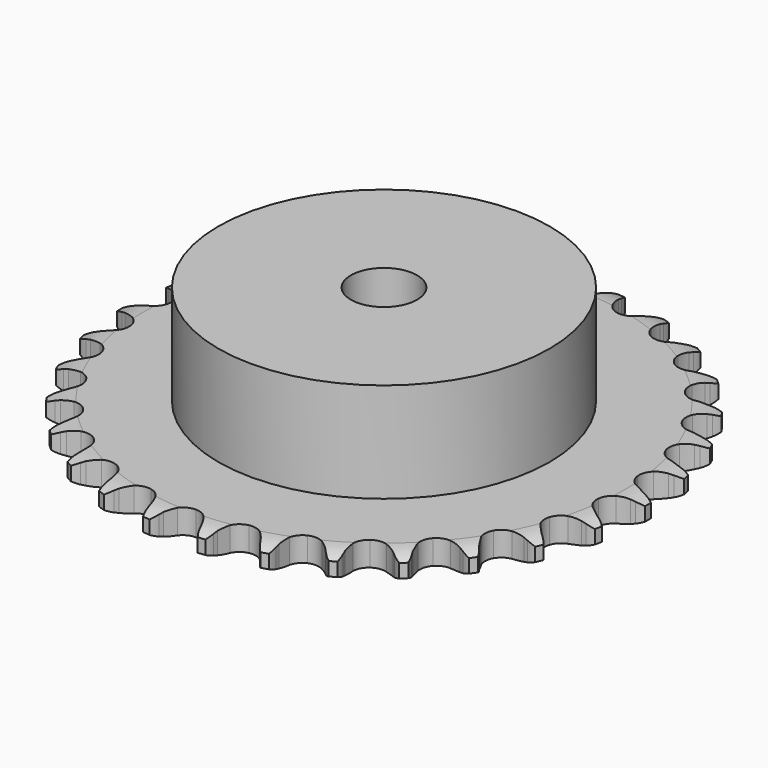
from build123d import *

# Parameters (mm, degrees)
PAD_DEPTH         = 5.9
SKETCH001_R       = 40
PAD001_DEPTH      = 30
SKETCH002_R       = 8
POCKET_DEPTH      = 0.001
POCKET_DEPTH_BACK = 30.001


with BuildPart() as part:
    # Sprocket → Pad (new body)
    with BuildSketch(Plane.XY):
        with BuildLine():
            ThreePointArc((-6.777604, 64.484596), (-5.665418, 63.296033), (-4.894278, 61.862512))
            Line((-4.894278, 61.862512), (-4.516365, 60.871126))
            ThreePointArc((-4.516365, 60.871126), (-3.916232, 59.57825), (-3.140614, 58.382381))
            ThreePointArc((-3.140614, 58.382381), (-1.754662, 57.229697), (0, 56.816529))
            ThreePointArc((0, 56.816529), (1.754662, 57.229697), (3.140614, 58.382381))
            ThreePointArc((3.140614, 58.382381), (3.916232, 59.57825), (4.516365, 60.871126))
            Line((4.516365, 60.871126), (4.894278, 61.862512))
            ThreePointArc((4.894278, 61.862512), (5.665418, 63.296033), (6.777604, 64.484596))
            ThreePointArc((6.777604, 64.484596), (7.61837, 63.09077), (8.074614, 61.528246))
            Line((8.074614, 61.528246), (8.238147, 60.47995))
            ThreePointArc((8.238147, 60.47995), (8.556362, 59.090553), (9.066395, 57.759556))
            ThreePointArc((9.066395, 57.759556), (10.182405, 56.343905), (11.812821, 55.574951))
            ThreePointArc((11.812821, 55.574951), (13.615041, 55.614276), (15.210364, 56.453616))
            Line((15.210364, 56.453616), (17.07349, 58.60194))
            ThreePointArc((17.07349, 58.60194), (17.349706, 59.055057), (17.649266, 59.493091))
            ThreePointArc((17.649266, 59.493091), (18.7016, 60.734957), (20.036599, 61.66631))
            ThreePointArc((20.036599, 61.66631), (20.569199, 60.128137), (20.690605, 58.504899))
            Line((20.690605, 58.504899), (20.632613, 57.445511))
            ThreePointArc((20.632613, 57.445511), (20.655002, 56.020315), (20.87716, 54.612362))
            ThreePointArc((20.87716, 54.612362), (21.674451, 52.995615), (23.109364, 51.904482))
            ThreePointArc((23.109364, 51.904482), (24.880378, 51.568244), (26.615348, 52.057556))
            Line((26.615348, 52.057556), (28.884422, 53.771569))
            ThreePointArc((28.884422, 53.771569), (29.24881, 54.157356), (29.632896, 54.523535))
            ThreePointArc((29.632896, 54.523535), (30.920433, 55.519471), (32.419898, 56.15291))
            ThreePointArc((32.419898, 56.15291), (32.621056, 54.537616), (32.402319, 52.924608))
            Line((32.402319, 52.924608), (32.125334, 51.900428))
            ThreePointArc((32.125334, 51.900428), (31.850919, 50.50172), (31.775492, 49.078345))
            ThreePointArc((31.775492, 49.078345), (32.219221, 47.331161), (33.395918, 45.965537))
            ThreePointArc((33.395918, 45.965537), (35.058323, 45.268433), (36.857113, 45.386332))
            Line((36.857113, 45.386332), (39.432966, 46.591123))
            ThreePointArc((39.432966, 46.591123), (39.8696, 46.892718), (40.321426, 47.17104))
            ThreePointArc((40.321426, 47.17104), (41.787894, 47.877518), (43.386292, 48.185359))
            ThreePointArc((43.386292, 48.185359), (43.247215, 46.563539), (42.697895, 45.031258))
            Line((42.697895, 45.031258), (42.214024, 44.087046))
            ThreePointArc((42.214024, 44.087046), (41.654798, 42.775958), (41.285083, 41.399369))
            ThreePointArc((41.285083, 41.399369), (41.355855, 39.598109), (42.222909, 38.017678))
            ThreePointArc((42.222909, 38.017678), (43.704051, 36.990174), (45.488046, 36.731507))
            Line((45.488046, 36.731507), (48.2581, 37.37442))
            ThreePointArc((48.2581, 37.37442), (48.747898, 37.578643), (49.247717, 37.756943))
            ThreePointArc((49.247717, 37.756943), (50.829024, 38.143087), (52.456497, 38.111876))
            ThreePointArc((52.456497, 38.111876), (51.983264, 36.554413), (51.127368, 35.169825))
            Line((51.127368, 35.169825), (50.457759, 34.346849))
            ThreePointArc((50.457759, 34.346849), (49.638162, 33.180681), (48.990318, 31.911042))
            ThreePointArc((48.990318, 31.911042), (48.68504, 30.13443), (49.204557, 28.408264))
            ThreePointArc((49.204557, 28.408264), (50.439702, 27.095267), (52.130932, 26.471339))
            Line((52.130932, 26.471339), (54.974123, 26.524276))
            ThreePointArc((54.974123, 26.524276), (55.495679, 26.622202), (56.021646, 26.692687))
            ThreePointArc((56.021646, 26.692687), (57.648682, 26.741621), (59.234101, 26.372721))
            ThreePointArc((59.234101, 26.372721), (58.447395, 24.947683), (57.322331, 23.771302))
            Line((57.322331, 23.771302), (56.496247, 23.10553))
            ThreePointArc((56.496247, 23.10553), (55.452101, 22.13525), (54.554441, 21.02805))
            ThreePointArc((54.554441, 21.02805), (53.886456, 19.353731), (54.03573, 17.557273))
            ThreePointArc((54.03573, 17.557273), (54.970896, 16.016166), (56.495447, 15.054246))
            Line((56.495447, 15.054246), (59.287514, 14.514894))
            ThreePointArc((59.287514, 14.514894), (59.818032, 14.502243), (60.347161, 14.461833))
            ThreePointArc((60.347161, 14.461833), (61.948816, 14.171417), (63.422891, 13.480952))
            ThreePointArc((63.422891, 13.480952), (62.357094, 12.250619), (61.012032, 11.33386))
            Line((61.012032, 11.33386), (60.065579, 10.854389))
            ThreePointArc((60.065579, 10.854389), (58.842517, 10.122401), (57.734273, 9.22603))
            ThreePointArc((57.734273, 9.22603), (56.732774, 7.727182), (56.505282, 5.938944))
            ThreePointArc((56.505282, 5.938944), (57.099599, 4.237083), (58.39084, 2.979211))
            Line((58.39084, 2.979211), (61.009756, 1.871142))
            ThreePointArc((61.009756, 1.871142), (61.526051, 1.748466), (62.035214, 1.598927))
            ThreePointArc((62.035214, 1.598927), (63.541489, 0.981855), (64.839796, 0))
            ThreePointArc((64.839796, 0), (63.541489, -0.981855), (62.035214, -1.598927))
            Line((62.035214, -1.598927), (61.009756, -1.871142))
            ThreePointArc((61.009756, -1.871142), (59.661232, -2.332845), (58.39084, -2.979211))
            ThreePointArc((58.39084, -2.979211), (57.099599, -4.237083), (56.505282, -5.938944))
            ThreePointArc((56.505282, -5.938944), (56.732774, -7.727182), (57.734273, -9.22603))
            Line((57.734273, -9.22603), (60.065579, -10.854389))
            ThreePointArc((60.065579, -10.854389), (60.545085, -11.081728), (61.012032, -11.33386))
            ThreePointArc((61.012032, -11.33386), (62.357094, -12.250619), (63.422891, -13.480952))
            ThreePointArc((63.422891, -13.480952), (61.948816, -14.171417), (60.347161, -14.461833))
            Line((60.347161, -14.461833), (59.287514, -14.514894))
            ThreePointArc((59.287514, -14.514894), (57.872465, -14.686134), (56.495447, -15.054246))
            ThreePointArc((56.495447, -15.054246), (54.970896, -16.016166), (54.03573, -17.557273))
            ThreePointArc((54.03573, -17.557273), (53.886456, -19.353731), (54.554441, -21.02805))
            Line((54.554441, -21.02805), (56.496247, -23.10553))
            ThreePointArc((56.496247, -23.10553), (56.918009, -23.427596), (57.322331, -23.771302))
            ThreePointArc((57.322331, -23.771302), (58.447395, -24.947683), (59.234101, -26.372721))
            ThreePointArc((59.234101, -26.372721), (57.648682, -26.741621), (56.021646, -26.692687))
            Line((56.021646, -26.692687), (54.974123, -26.524276))
            ThreePointArc((54.974123, -26.524276), (53.554394, -26.397569), (52.130932, -26.471339))
            ThreePointArc((52.130932, -26.471339), (50.439702, -27.095267), (49.204557, -28.408264))
            ThreePointArc((49.204557, -28.408264), (48.68504, -30.13443), (48.990318, -31.911042))
            Line((48.990318, -31.911042), (50.457759, -34.346849))
            ThreePointArc((50.457759, -34.346849), (50.803343, -34.749567), (51.127368, -35.169825))
            ThreePointArc((51.127368, -35.169825), (51.983264, -36.554413), (52.456497, -38.111876))
            ThreePointArc((52.456497, -38.111876), (50.829024, -38.143087), (49.247717, -37.756943))
            Line((49.247717, -37.756943), (48.2581, -37.37442))
            ThreePointArc((48.2581, -37.37442), (46.895739, -36.955303), (45.488046, -36.731507))
            ThreePointArc((45.488046, -36.731507), (43.704051, -36.990174), (42.222909, -38.017678))
            ThreePointArc((42.222909, -38.017678), (41.355855, -39.598109), (41.285083, -41.399369))
            Line((41.285083, -41.399369), (42.214024, -44.087046))
            ThreePointArc((42.214024, -44.087046), (42.468327, -44.552814), (42.697895, -45.031258))
            ThreePointArc((42.697895, -45.031258), (43.247215, -46.563539), (43.386292, -48.185359))
            ThreePointArc((43.386292, -48.185359), (41.787894, -47.877518), (40.321426, -47.17104))
            Line((40.321426, -47.17104), (39.432966, -46.591123))
            ThreePointArc((39.432966, -46.591123), (38.187515, -45.897914), (36.857113, -45.386332))
            ThreePointArc((36.857113, -45.386332), (35.058323, -45.268433), (33.395918, -45.965537))
            ThreePointArc((33.395918, -45.965537), (32.219221, -47.331161), (31.775492, -49.078345))
            Line((31.775492, -49.078345), (32.125334, -51.900428))
            ThreePointArc((32.125334, -51.900428), (32.277241, -52.40889), (32.402319, -52.924608))
            ThreePointArc((32.402319, -52.924608), (32.621056, -54.537616), (32.419898, -56.15291))
            ThreePointArc((32.419898, -56.15291), (30.920433, -55.519471), (29.632896, -54.523535))
            Line((29.632896, -54.523535), (28.884422, -53.771569))
            ThreePointArc((28.884422, -53.771569), (27.810313, -52.834565), (26.615348, -52.057556))
            ThreePointArc((26.615348, -52.057556), (24.880378, -51.568244), (23.109364, -51.904482))
            ThreePointArc((23.109364, -51.904482), (21.674451, -52.995615), (20.87716, -54.612362))
            Line((20.87716, -54.612362), (20.632613, -57.445511))
            ThreePointArc((20.632613, -57.445511), (20.675485, -57.974446), (20.690605, -58.504899))
            ThreePointArc((20.690605, -58.504899), (20.569199, -60.128137), (20.036599, -61.66631))
            ThreePointArc((20.036599, -61.66631), (18.7016, -60.734957), (17.649266, -59.493091))
            Line((17.649266, -59.493091), (17.07349, -58.60194))
            ThreePointArc((17.07349, -58.60194), (16.217668, -57.462092), (15.210364, -56.453616))
            ThreePointArc((15.210364, -56.453616), (13.615041, -55.614276), (11.812821, -55.574951))
            ThreePointArc((11.812821, -55.574951), (10.182405, -56.343905), (9.066395, -57.759556))
            Line((9.066395, -57.759556), (8.238147, -60.47995))
            ThreePointArc((8.238147, -60.47995), (8.170111, -61.00624), (8.074614, -61.528246))
            ThreePointArc((8.074614, -61.528246), (7.61837, -63.09077), (6.777604, -64.484596))
            ThreePointArc((6.777604, -64.484596), (5.665418, -63.296033), (4.894278, -61.862512))
            Line((4.894278, -61.862512), (4.516365, -60.871126))
            ThreePointArc((4.516365, -60.871126), (3.916232, -59.57825), (3.140614, -58.382381))
            ThreePointArc((3.140614, -58.382381), (1.754662, -57.229697), (0, -56.816529))
            ThreePointArc((0, -56.816529), (-1.754662, -57.229697), (-3.140614, -58.382381))
            Line((-3.140614, -58.382381), (-4.516365, -60.871126))
            ThreePointArc((-4.516365, -60.871126), (-4.692336, -61.371769), (-4.894278, -61.862512))
            ThreePointArc((-4.894278, -61.862512), (-5.665418, -63.296033), (-6.777604, -64.484596))
            ThreePointArc((-6.777604, -64.484596), (-7.61837, -63.09077), (-8.074614, -61.528246))
            Line((-8.074614, -61.528246), (-8.238147, -60.47995))
            ThreePointArc((-8.238147, -60.47995), (-8.556362, -59.090553), (-9.066395, -57.759556))
            ThreePointArc((-9.066395, -57.759556), (-10.182405, -56.343905), (-11.812821, -55.574951))
            ThreePointArc((-11.812821, -55.574951), (-13.615041, -55.614276), (-15.210364, -56.453616))
            Line((-15.210364, -56.453616), (-17.07349, -58.60194))
            ThreePointArc((-17.07349, -58.60194), (-17.349706, -59.055057), (-17.649266, -59.493091))
            ThreePointArc((-17.649266, -59.493091), (-18.7016, -60.734957), (-20.036599, -61.66631))
            ThreePointArc((-20.036599, -61.66631), (-20.569199, -60.128137), (-20.690605, -58.504899))
            Line((-20.690605, -58.504899), (-20.632613, -57.445511))
            ThreePointArc((-20.632613, -57.445511), (-20.655002, -56.020315), (-20.87716, -54.612362))
            ThreePointArc((-20.87716, -54.612362), (-21.674451, -52.995615), (-23.109364, -51.904482))
            ThreePointArc((-23.109364, -51.904482), (-24.880378, -51.568244), (-26.615348, -52.057556))
            Line((-26.615348, -52.057556), (-28.884422, -53.771569))
            ThreePointArc((-28.884422, -53.771569), (-29.24881, -54.157356), (-29.632896, -54.523535))
            ThreePointArc((-29.632896, -54.523535), (-30.920433, -55.519471), (-32.419898, -56.15291))
            ThreePointArc((-32.419898, -56.15291), (-32.621056, -54.537616), (-32.402319, -52.924608))
            Line((-32.402319, -52.924608), (-32.125334, -51.900428))
            ThreePointArc((-32.125334, -51.900428), (-31.850919, -50.50172), (-31.775492, -49.078345))
            ThreePointArc((-31.775492, -49.078345), (-32.219221, -47.331161), (-33.395918, -45.965537))
            ThreePointArc((-33.395918, -45.965537), (-35.058323, -45.268433), (-36.857113, -45.386332))
            Line((-36.857113, -45.386332), (-39.432966, -46.591123))
            ThreePointArc((-39.432966, -46.591123), (-39.8696, -46.892718), (-40.321426, -47.17104))
            ThreePointArc((-40.321426, -47.17104), (-41.787894, -47.877518), (-43.386292, -48.185359))
            ThreePointArc((-43.386292, -48.185359), (-43.247215, -46.563539), (-42.697895, -45.031258))
            Line((-42.697895, -45.031258), (-42.214024, -44.087046))
            ThreePointArc((-42.214024, -44.087046), (-41.654798, -42.775958), (-41.285083, -41.399369))
            ThreePointArc((-41.285083, -41.399369), (-41.355855, -39.598109), (-42.222909, -38.017678))
            ThreePointArc((-42.222909, -38.017678), (-43.704051, -36.990174), (-45.488046, -36.731507))
            Line((-45.488046, -36.731507), (-48.2581, -37.37442))
            ThreePointArc((-48.2581, -37.37442), (-48.747898, -37.578643), (-49.247717, -37.756943))
            ThreePointArc((-49.247717, -37.756943), (-50.829024, -38.143087), (-52.456497, -38.111876))
            ThreePointArc((-52.456497, -38.111876), (-51.983264, -36.554413), (-51.127368, -35.169825))
            Line((-51.127368, -35.169825), (-50.457759, -34.346849))
            ThreePointArc((-50.457759, -34.346849), (-49.638162, -33.180681), (-48.990318, -31.911042))
            ThreePointArc((-48.990318, -31.911042), (-48.68504, -30.13443), (-49.204557, -28.408264))
            ThreePointArc((-49.204557, -28.408264), (-50.439702, -27.095267), (-52.130932, -26.471339))
            Line((-52.130932, -26.471339), (-54.974123, -26.524276))
            ThreePointArc((-54.974123, -26.524276), (-55.495679, -26.622202), (-56.021646, -26.692687))
            ThreePointArc((-56.021646, -26.692687), (-57.648682, -26.741621), (-59.234101, -26.372721))
            ThreePointArc((-59.234101, -26.372721), (-58.447395, -24.947683), (-57.322331, -23.771302))
            Line((-57.322331, -23.771302), (-56.496247, -23.10553))
            ThreePointArc((-56.496247, -23.10553), (-55.452101, -22.13525), (-54.554441, -21.02805))
            ThreePointArc((-54.554441, -21.02805), (-53.886456, -19.353731), (-54.03573, -17.557273))
            ThreePointArc((-54.03573, -17.557273), (-54.970896, -16.016166), (-56.495447, -15.054246))
            Line((-56.495447, -15.054246), (-59.287514, -14.514894))
            ThreePointArc((-59.287514, -14.514894), (-59.818032, -14.502243), (-60.347161, -14.461833))
            ThreePointArc((-60.347161, -14.461833), (-61.948816, -14.171417), (-63.422891, -13.480952))
            ThreePointArc((-63.422891, -13.480952), (-62.357094, -12.250619), (-61.012032, -11.33386))
            Line((-61.012032, -11.33386), (-60.065579, -10.854389))
            ThreePointArc((-60.065579, -10.854389), (-58.842517, -10.122401), (-57.734273, -9.22603))
            ThreePointArc((-57.734273, -9.22603), (-56.732774, -7.727182), (-56.505282, -5.938944))
            ThreePointArc((-56.505282, -5.938944), (-57.099599, -4.237083), (-58.39084, -2.979211))
            Line((-58.39084, -2.979211), (-61.009756, -1.871142))
            ThreePointArc((-61.009756, -1.871142), (-61.526051, -1.748466), (-62.035214, -1.598927))
            ThreePointArc((-62.035214, -1.598927), (-63.541489, -0.981855), (-64.839796, 0))
            ThreePointArc((-64.839796, 0), (-63.541489, 0.981855), (-62.035214, 1.598927))
            Line((-62.035214, 1.598927), (-61.009756, 1.871142))
            ThreePointArc((-61.009756, 1.871142), (-59.661232, 2.332845), (-58.39084, 2.979211))
            ThreePointArc((-58.39084, 2.979211), (-57.099599, 4.237083), (-56.505282, 5.938944))
            ThreePointArc((-56.505282, 5.938944), (-56.732774, 7.727182), (-57.734273, 9.22603))
            Line((-57.734273, 9.22603), (-60.065579, 10.854389))
            ThreePointArc((-60.065579, 10.854389), (-60.545085, 11.081728), (-61.012032, 11.33386))
            ThreePointArc((-61.012032, 11.33386), (-62.357094, 12.250619), (-63.422891, 13.480952))
            ThreePointArc((-63.422891, 13.480952), (-61.948816, 14.171417), (-60.347161, 14.461833))
            Line((-60.347161, 14.461833), (-59.287514, 14.514894))
            ThreePointArc((-59.287514, 14.514894), (-57.872465, 14.686134), (-56.495447, 15.054246))
            ThreePointArc((-56.495447, 15.054246), (-54.970896, 16.016166), (-54.03573, 17.557273))
            ThreePointArc((-54.03573, 17.557273), (-53.886456, 19.353731), (-54.554441, 21.02805))
            Line((-54.554441, 21.02805), (-56.496247, 23.10553))
            ThreePointArc((-56.496247, 23.10553), (-56.918009, 23.427596), (-57.322331, 23.771302))
            ThreePointArc((-57.322331, 23.771302), (-58.447395, 24.947683), (-59.234101, 26.372721))
            ThreePointArc((-59.234101, 26.372721), (-57.648682, 26.741621), (-56.021646, 26.692687))
            Line((-56.021646, 26.692687), (-54.974123, 26.524276))
            ThreePointArc((-54.974123, 26.524276), (-53.554394, 26.397569), (-52.130932, 26.471339))
            ThreePointArc((-52.130932, 26.471339), (-50.439702, 27.095267), (-49.204557, 28.408264))
            ThreePointArc((-49.204557, 28.408264), (-48.68504, 30.13443), (-48.990318, 31.911042))
            Line((-48.990318, 31.911042), (-50.457759, 34.346849))
            ThreePointArc((-50.457759, 34.346849), (-50.803343, 34.749567), (-51.127368, 35.169825))
            ThreePointArc((-51.127368, 35.169825), (-51.983264, 36.554413), (-52.456497, 38.111876))
            ThreePointArc((-52.456497, 38.111876), (-50.829024, 38.143087), (-49.247717, 37.756943))
            Line((-49.247717, 37.756943), (-48.2581, 37.37442))
            ThreePointArc((-48.2581, 37.37442), (-46.895739, 36.955303), (-45.488046, 36.731507))
            ThreePointArc((-45.488046, 36.731507), (-43.704051, 36.990174), (-42.222909, 38.017678))
            ThreePointArc((-42.222909, 38.017678), (-41.355855, 39.598109), (-41.285083, 41.399369))
            Line((-41.285083, 41.399369), (-42.214024, 44.087046))
            ThreePointArc((-42.214024, 44.087046), (-42.468327, 44.552814), (-42.697895, 45.031258))
            ThreePointArc((-42.697895, 45.031258), (-43.247215, 46.563539), (-43.386292, 48.185359))
            ThreePointArc((-43.386292, 48.185359), (-41.787894, 47.877518), (-40.321426, 47.17104))
            Line((-40.321426, 47.17104), (-39.432966, 46.591123))
            ThreePointArc((-39.432966, 46.591123), (-38.187515, 45.897914), (-36.857113, 45.386332))
            ThreePointArc((-36.857113, 45.386332), (-35.058323, 45.268433), (-33.395918, 45.965537))
            ThreePointArc((-33.395918, 45.965537), (-32.219221, 47.331161), (-31.775492, 49.078345))
            Line((-31.775492, 49.078345), (-32.125334, 51.900428))
            ThreePointArc((-32.125334, 51.900428), (-32.277241, 52.40889), (-32.402319, 52.924608))
            ThreePointArc((-32.402319, 52.924608), (-32.621056, 54.537616), (-32.419898, 56.15291))
            ThreePointArc((-32.419898, 56.15291), (-30.920433, 55.519471), (-29.632896, 54.523535))
            Line((-29.632896, 54.523535), (-28.884422, 53.771569))
            ThreePointArc((-28.884422, 53.771569), (-27.810313, 52.834565), (-26.615348, 52.057556))
            ThreePointArc((-26.615348, 52.057556), (-24.880378, 51.568244), (-23.109364, 51.904482))
            ThreePointArc((-23.109364, 51.904482), (-21.674451, 52.995615), (-20.87716, 54.612362))
            Line((-20.87716, 54.612362), (-20.632613, 57.445511))
            ThreePointArc((-20.632613, 57.445511), (-20.675485, 57.974446), (-20.690605, 58.504899))
            ThreePointArc((-20.690605, 58.504899), (-20.569199, 60.128137), (-20.036599, 61.66631))
            ThreePointArc((-20.036599, 61.66631), (-18.7016, 60.734957), (-17.649266, 59.493091))
            Line((-17.649266, 59.493091), (-17.07349, 58.60194))
            ThreePointArc((-17.07349, 58.60194), (-16.217668, 57.462092), (-15.210364, 56.453616))
            ThreePointArc((-15.210364, 56.453616), (-13.615041, 55.614276), (-11.812821, 55.574951))
            ThreePointArc((-11.812821, 55.574951), (-10.182405, 56.343905), (-9.066395, 57.759556))
            Line((-9.066395, 57.759556), (-8.238147, 60.47995))
            ThreePointArc((-8.238147, 60.47995), (-8.170111, 61.00624), (-8.074614, 61.528246))
            ThreePointArc((-8.074614, 61.528246), (-7.61837, 63.09077), (-6.777604, 64.484596))
        make_face()
    extrude(amount=PAD_DEPTH)

    # Sketch → Groove (revolve, cut)
    with BuildSketch(Plane.XZ):
        with BuildLine():
            Line((58.083431, 0), (63.75, 0))
            Line((69.416569, 0), (63.75, 0))
            Line((69.416569, 5.9), (69.416569, 0))
            Line((63.75, 5.9), (69.416569, 5.9))
            Line((58.083431, 5.9), (63.75, 5.9))
            ThreePointArc((63.75, 4.6), (60.99032, 5.570833), (58.083431, 5.9))
            Line((63.75, 1.3), (63.75, 4.6))
            ThreePointArc((58.083431, 0), (60.99032, 0.329167), (63.75, 1.3))
        make_face()
    revolve(axis=Axis((0, 0, 0), (0, 0, 1)), mode=Mode.SUBTRACT)

    # Sketch001 → Pad001 (join)
    with BuildSketch(Plane.XY):
        Circle(SKETCH001_R)
    extrude(amount=PAD001_DEPTH)

    # Sketch002 → Pocket (cut, two sides)
    with BuildSketch(Plane.XY) as pocket_sk:
        Circle(SKETCH002_R)
    extrude(amount=-POCKET_DEPTH, mode=Mode.SUBTRACT)
    extrude(pocket_sk.sketch, amount=POCKET_DEPTH_BACK, mode=Mode.SUBTRACT)


solid = part.part
